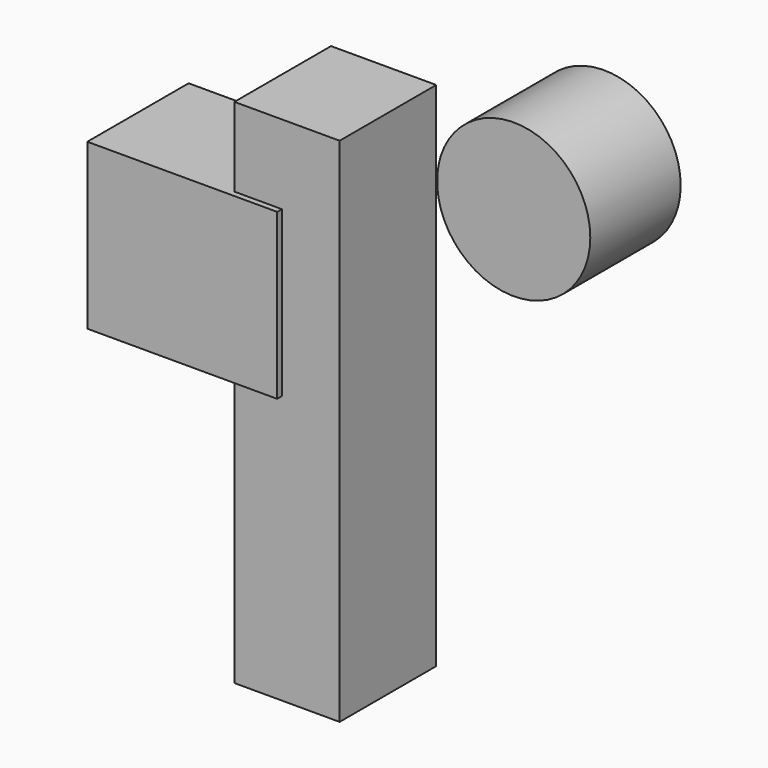
from build123d import *

# Parameters (mm, degrees)
F0_W     = 74.27104
F0_H     = 64.391913
F1_DEPTH = 49.53
F2_W     = 41.161664
F2_H     = 200.141754
F3_DEPTH = 47.244
F4_R     = 29.952556
F5_DEPTH = 44.196


with BuildPart() as f1:
    # F0 (on Front) → F1 (new body)
    with BuildSketch(Plane.XZ):
        with Locations((-18.567762, 13.032543)):
            Rectangle(F0_W, F0_H)
    extrude(amount=F1_DEPTH)

    # F2 (on Front) → F3 (join)
    with BuildSketch(Plane.XZ):
        with Locations((20.580832, -23.924412)):
            Rectangle(F2_W, F2_H)
    extrude(amount=F3_DEPTH)


with BuildPart() as f5:
    # F4 (on Front) → F5 (new body)
    with BuildSketch(Plane.XZ):
        with Locations((71.467511, 43.176543)):
            Circle(F4_R)
    extrude(amount=-F5_DEPTH)


solid = Compound([f1.part, f5.part])
